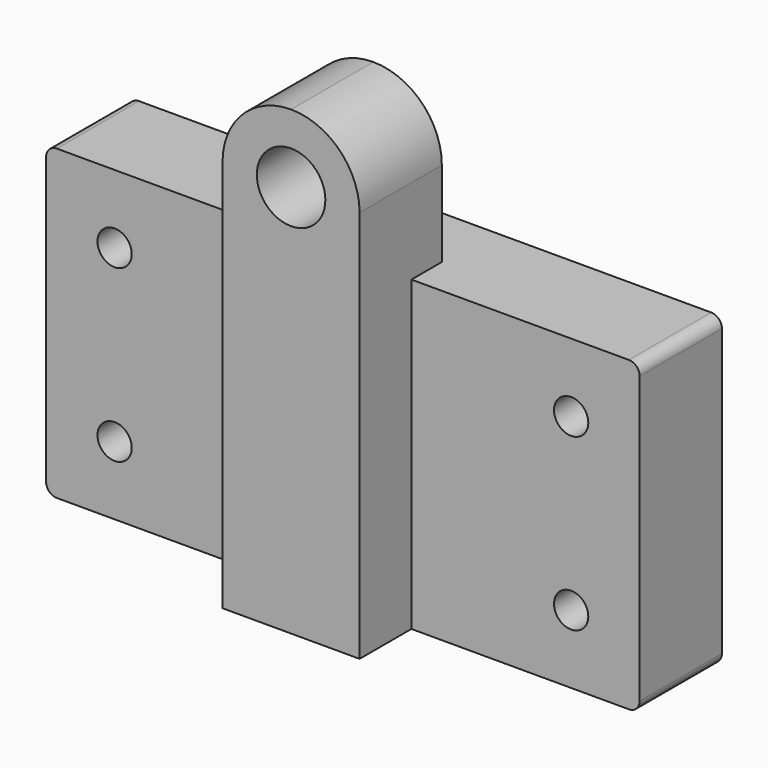
from build123d import *

# Parameters (mm, degrees)
F0_W          = 25.4
F0_H          = 57
F0_R          = 3.175
F1_DEPTH      = 12
F1_DEPTH_BACK = 7.05
F0_R_2        = 6.35
F2_DEPTH      = 19.05


with BuildPart() as f1:
    # F0 (on Front) → F1 (new body, two sides)
    with BuildSketch(Plane.XZ) as f1_sk:
        Rectangle(F0_W, F0_H)
        with BuildLine():
            Line((-12.7, 28.5), (-53, 28.5))
            ThreePointArc((-53, 28.5), (-54.4142135624, 27.9142135624), (-55, 26.5))
            Line((-55, 26.5), (-55, -26.5))
            ThreePointArc((-55, -26.5), (-54.4142135624, -27.9142135624), (-53, -28.5))
            Line((-53, -28.5), (-12.7, -28.5))
            Line((-12.7, -28.5), (-12.7, 28.5))
        make_face()
        with Locations((-42.3, -15.8)):
            Circle(F0_R, mode=Mode.SUBTRACT)
        with Locations((-42.3, 15.8)):
            Circle(F0_R, mode=Mode.SUBTRACT)
        with BuildLine():
            Line((53, 28.5), (12.7, 28.5))
            Line((12.7, 28.5), (12.7, -28.5))
            Line((12.7, -28.5), (53, -28.5))
            ThreePointArc((53, -28.5), (54.4142135624, -27.9142135624), (55, -26.5))
            Line((55, -26.5), (55, 26.5))
            ThreePointArc((55, 26.5), (54.4142135624, 27.9142135624), (53, 28.5))
        make_face()
        with Locations((42.3, -15.8)):
            Circle(F0_R, mode=Mode.SUBTRACT)
        with Locations((42.3, 15.8)):
            Circle(F0_R, mode=Mode.SUBTRACT)
    extrude(amount=-F1_DEPTH)
    extrude(f1_sk.sketch, amount=F1_DEPTH_BACK)

    # F0 (on Front) → F2 (join)
    with BuildSketch(Plane.XZ):
        Rectangle(F0_W, F0_H)
        with BuildLine():
            Line((-12.7, 44.3), (-12.7, 28.5))
            Line((-12.7, 28.5), (12.7, 28.5))
            Line((12.7, 28.5), (12.7, 44.3))
            ThreePointArc((12.7, 44.3), (0, 31.6), (-12.7, 44.3))
        make_face()
        with BuildLine():
            ThreePointArc((0, 57), (-8.9802561211, 53.2802561211), (-12.7, 44.3))
            ThreePointArc((-12.7, 44.3), (0, 31.6), (12.7, 44.3))
            ThreePointArc((12.7, 44.3), (8.9802561211, 53.2802561211), (0, 57))
        make_face()
        with Locations((0, 44.3)):
            Circle(F0_R_2, mode=Mode.SUBTRACT)
    extrude(amount=F2_DEPTH)


solid = f1.part
